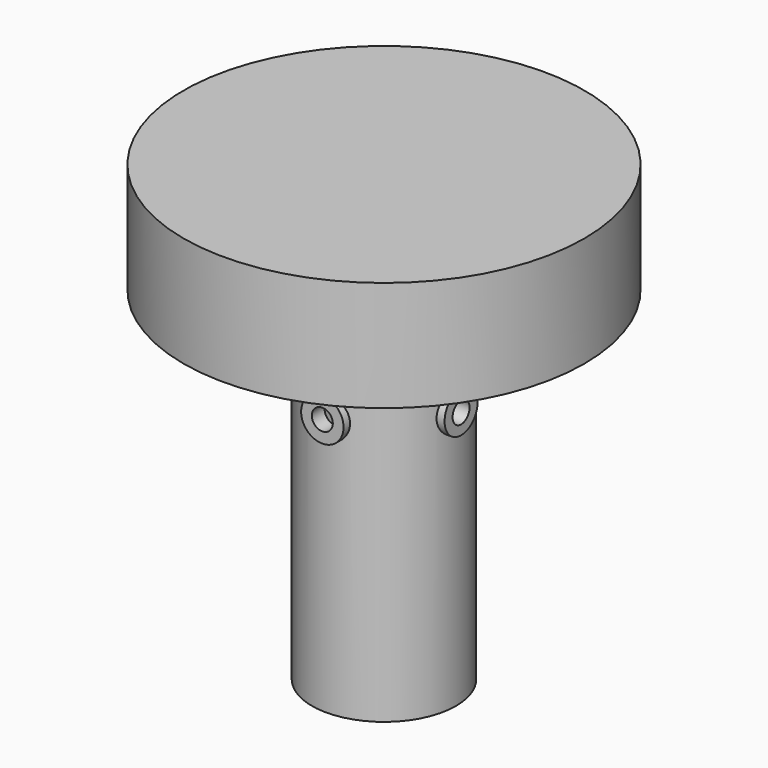
from build123d import *

# Parameters (mm, degrees)
F0_R       = 66.04
F1_DEPTH   = 36.322
F2_R       = 61.366529
F3_DEPTH   = 22.098
F4_R       = 23.749331
F5_DEPTH   = 23.622
F5_FACE_R  = 23.749331
F6_DEPTH   = 113.03
F7_R       = 20.42203
F8_DEPTH   = 101.6
F9_R       = 4.958863
F10_DEPTH  = 12.7
F10_FACE_R = 4.958863
F11_DEPTH  = 10.147979
F13_R      = 6.98539
F14_DEPTH  = 25.4
F15_R      = 6.794263
F16_DEPTH  = 25.4
F17_R      = 3.502484
F18_DEPTH  = 40.0812
F19_R      = 3.454969
F20_DEPTH  = 72.136
F21_R      = 20.477735
F22_DEPTH  = 50.8


with BuildPart() as f1:
    # F0 (on Top) → F1 (new body)
    with BuildSketch(Plane.XY):
        Circle(F0_R)
    extrude(amount=F1_DEPTH)

    # F2 (on Top) → F3 (cut)
    with BuildSketch(Plane.XY):
        Circle(F2_R)
    extrude(amount=F3_DEPTH, mode=Mode.SUBTRACT)

    # F4 (on Top) → F5 (join)
    with BuildSketch(Plane.XY):
        Circle(F4_R)
    extrude(amount=F5_DEPTH)

    # F5_face (on face) → F6 (join)
    with BuildSketch(Plane(origin=(0, 0, 0), x_dir=(1, 0, 0), z_dir=(0, 0, -1))):
        Circle(F5_FACE_R)
    extrude(amount=F6_DEPTH)

    # F7 (on face) → F8 (cut)
    with BuildSketch(Plane(origin=(0, 0, -113.03), x_dir=(1, 0, 0), z_dir=(0, 0, -1))):
        Circle(F7_R)
    extrude(amount=-F8_DEPTH, mode=Mode.SUBTRACT)

    # F13 (on Front) → F14 (join, symmetric)
    with BuildSketch(Plane.XZ):
        with Locations((0, -27.338758)):
            Circle(F13_R)
    extrude(amount=F14_DEPTH, both=True)

    # F15 (on Right) → F16 (join, symmetric)
    with BuildSketch(Plane.YZ):
        with Locations((0, -27.19821)):
            Circle(F15_R)
    extrude(amount=F16_DEPTH, both=True)

    # F17 (on Right) → F18 (cut, symmetric)
    with BuildSketch(Plane.YZ):
        with Locations((0, -27.330657)):
            Circle(F17_R)
    extrude(amount=F18_DEPTH, both=True, mode=Mode.SUBTRACT)

    # F19 (on face) → F20 (cut, symmetric)
    with BuildSketch(Plane.XZ.offset(25.4)):
        with Locations((0, -27.338758)):
            Circle(F19_R)
    extrude(amount=F20_DEPTH, both=True, mode=Mode.SUBTRACT)

    # F21 (on Top) → F22 (cut)
    with BuildSketch(Plane.XY):
        Circle(F21_R)
    extrude(amount=-F22_DEPTH, mode=Mode.SUBTRACT)


with BuildPart() as f10:
    # F9 (on Front) → F10 (new body)
    with BuildSketch(Plane.XZ):
        with Locations((0, -18.813234)):
            Circle(F9_R)
    extrude(amount=F10_DEPTH)

    # F10_face (on face) → F11 (join)
    with BuildSketch(Plane(origin=(0, 0, -18.813234), x_dir=(1, 0, 0), z_dir=(0, 1, 0))):
        Circle(F10_FACE_R)
    extrude(amount=F11_DEPTH)


solid = f1.part
